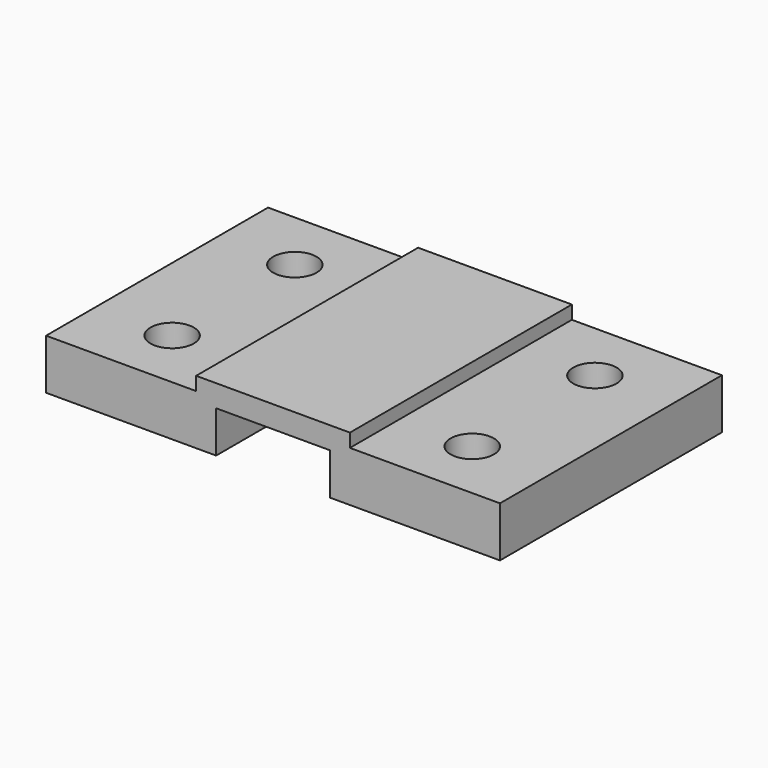
from build123d import *

# Parameters (mm, degrees)
F1_DEPTH = 41.6
F3_D     = 13


with BuildPart() as f1:
    # F0 (on Front) → F1 (new body, symmetric)
    with BuildSketch(Plane.XZ):
        Polygon((-51, 2.58), (-51, -12.5), (0, -12.5), (0, 0), (34.12, 0), (34.12, -12.5), (85.12, -12.5), (85.12, 2.58), (40.12, 2.58), (40.12, 6.62), (-6, 6.62), (-6, 2.58), align=None)
    extrude(amount=F1_DEPTH, both=True)

    # F3 (through all)
    with Locations(Plane.XY.offset(2.58)):
        with Locations((-28, -23.1), (-28, 22.9), (62, 22.9), (62, -23.1)):
            Hole(F3_D / 2)


solid = f1.part
